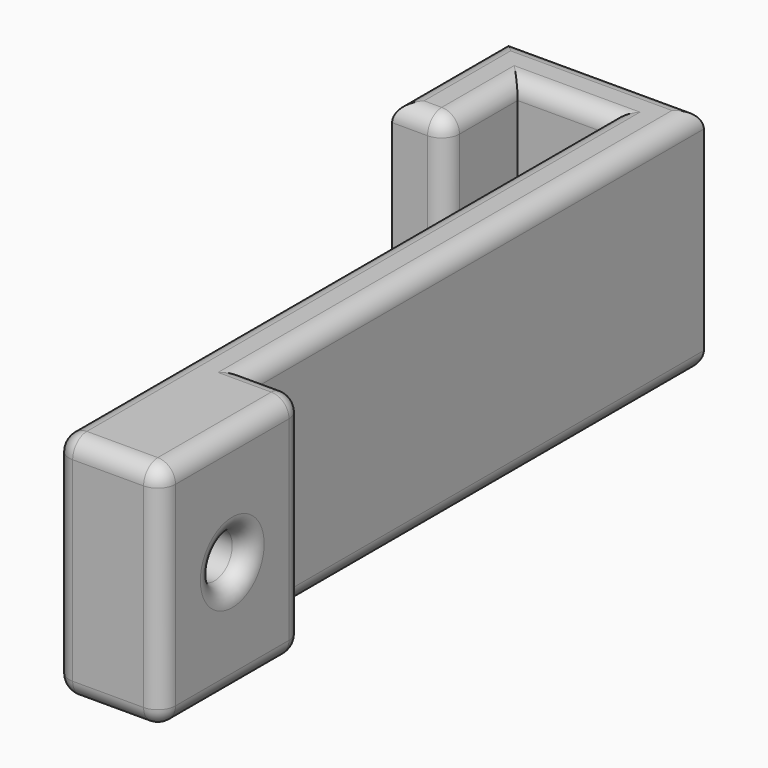
from build123d import *

# Parameters (mm, degrees)
F1_DEPTH = 13
F2_W     = 10
F2_H     = 13
F2_R     = 1.25
F3_DEPTH = 3
F4_DEPTH = 25
F5_R     = 1


with BuildPart() as f1:
    # F0 (on Top) → F1 (new body)
    with BuildSketch(Plane.XY):
        Polygon((-11.62796, 33.897347), (-8.62796, 33.897347), (-8.62796, 39), (-3.52796, 39), (-3.52796, 0), (-0.52796, 0), (-0.52796, 42), (-11.62796, 42), align=None)
    extrude(amount=F1_DEPTH)

    # F2 (on face) → F3 (join)
    with BuildSketch(Plane.YZ.offset(-0.52796)):
        with Locations((5, 6.5)):
            Rectangle(F2_W, F2_H)
        with Locations((5, 6.5)):
            Circle(F2_R, mode=Mode.SUBTRACT)
    extrude(amount=F3_DEPTH)

    # F2 (on face) → F4 (cut)
    with BuildSketch(Plane.YZ.offset(-0.52796)):
        with Locations((5, 6.5)):
            Circle(F2_R)
    extrude(amount=-F4_DEPTH, mode=Mode.SUBTRACT)

    # F5
    f5_edges = [f1.edges().sort_by_distance(p)[0] for p in [
        (-8.62796, 33.897347, 6.5),
        (-3.52796, 0, 6.5),
        (2.47204, 10, 6.5),
        (2.47204, 5, 13),
        (2.47204, 0, 6.5),
        (2.47204, 5, 0),
        (2.47204, 3.75, 6.5),
        (-0.52796, 26, 13),
        (-6.07796, 42, 13),
        (-11.62796, 37.948674, 13),
        (-10.12796, 33.897347, 13),
        (-8.62796, 36.448674, 13),
        (-6.07796, 39, 13),
        (-3.52796, 19.5, 13),
        (-0.52796, 0, 13),
        (0.97204, 10, 13),
        (-6.07796, 42, 0),
        (-11.62796, 37.948674, 0),
        (-10.12796, 33.897347, 0),
        (-8.62796, 36.448674, 0),
        (-6.07796, 39, 0),
        (-3.52796, 19.5, 0),
        (-0.52796, 0, 0),
        (0.97204, 10, 0),
        (-0.52796, 26, 0),
    ]]
    fillet(f5_edges, radius=F5_R)


solid = f1.part
